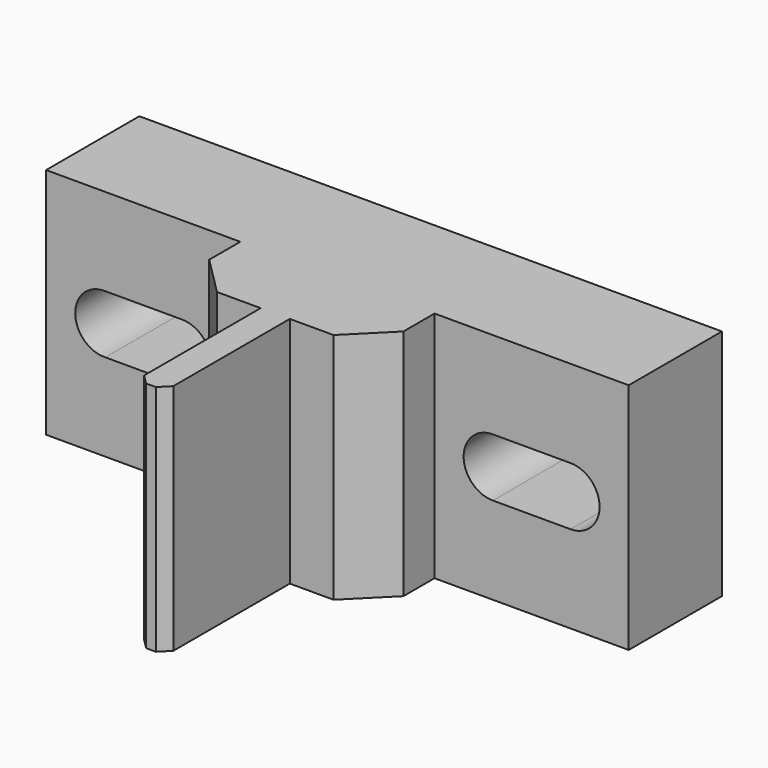
from build123d import *

# Parameters (mm, degrees)
F0_W      = 30
F0_H      = 12
F1_DEPTH  = 6
F2_W      = 10
F2_H      = 12
F3_DEPTH  = 4
F4_W      = 1.5
F4_H      = 12
F5_DEPTH  = 8
F6_SIZE   = 2
F7_SIZE   = 0.5
F10_DEPTH = 6
F12_DEPTH = 6


with BuildPart() as f1:
    # F0 (on Front) → F1 (new body)
    with BuildSketch(Plane.XZ):
        Rectangle(F0_W, F0_H)
    extrude(amount=F1_DEPTH)

    # F2 (on face) → F3 (join)
    with BuildSketch(Plane.XZ.offset(6)):
        Rectangle(F2_W, F2_H)
    extrude(amount=F3_DEPTH)

    # F4 (on face) → F5 (join)
    with BuildSketch(Plane.XZ.offset(10)):
        Rectangle(F4_W, F4_H)
    extrude(amount=F5_DEPTH)

    # F6
    f6_edges = [f1.edges().sort_by_distance(p)[0] for p in [
        (-5, -10, 0),
        (5, -10, 0),
    ]]
    chamfer(f6_edges, length=F6_SIZE)

    # F7
    f7_edges = [f1.edges().sort_by_distance(p)[0] for p in [
        (-0.75, -18, 0),
        (0.75, -18, 0),
    ]]
    chamfer(f7_edges, length=F7_SIZE)

    # F9 (on face) → F10 (cut, through all)
    with BuildSketch(Plane.XZ.offset(6)):
        with BuildLine():
            Line((8.028282, 1.499733), (7.971718, 1.499733))
            ThreePointArc((7.971718, 1.499733), (6.500096, -0.016942), (8.005601, -1.49999))
            ThreePointArc((8.005601, -1.49999), (9.062639, -1.058678), (9.5, 0))
            ThreePointArc((9.5, 0), (9.070613, 1.050614), (8.028282, 1.499733))
        make_face()
        with BuildLine():
            ThreePointArc((8.028282, 1.499733), (8, 1.5), (7.971718, 1.499733))
            Line((7.971718, 1.499733), (8.028282, 1.499733))
        make_face()
        with BuildLine():
            ThreePointArc((9.5, 0), (9.062639, -1.058678), (8.005601, -1.49999))
            Line((8.005601, -1.49999), (11.999996, -1.5))
            ThreePointArc((11.999996, -1.5), (10.500067, -0.014139), (11.971718, 1.499733))
            Line((11.971718, 1.499733), (8.028282, 1.499733))
            ThreePointArc((8.028282, 1.499733), (9.070613, 1.050614), (9.5, 0))
        make_face()
        with BuildLine():
            ThreePointArc((11.971718, 1.499733), (10.500067, -0.014139), (11.999996, -1.5))
            ThreePointArc((11.999996, -1.5), (13.060659, -1.060662), (13.5, 0))
            ThreePointArc((13.5, 0), (13.050614, 1.070613), (11.971718, 1.499733))
        make_face()
    extrude(amount=-F10_DEPTH, mode=Mode.SUBTRACT)

    # F11 (on face) → F12 (cut, through all)
    with BuildSketch(Plane.XZ.offset(6)):
        with BuildLine():
            Line((-11.948695, 1.499122), (-12.051971, 1.499099))
            ThreePointArc((-12.051971, 1.499099), (-13.499095, -0.052084), (-11.947804, -1.499092))
            ThreePointArc((-11.947804, -1.499092), (-10.921043, -1.042043), (-10.5, 0))
            ThreePointArc((-10.5, 0), (-10.921353, 1.042363), (-11.948695, 1.499122))
        make_face()
        with BuildLine():
            ThreePointArc((-11.948695, 1.499122), (-12.000333, 1.5), (-12.051971, 1.499099))
            Line((-12.051971, 1.499099), (-11.948695, 1.499122))
        make_face()
        with BuildLine():
            ThreePointArc((-10.5, 0), (-10.921043, -1.042043), (-11.947804, -1.499092))
            Line((-11.947804, -1.499092), (-8.000345, -1.5))
            ThreePointArc((-8.000345, -1.5), (-9.5, 6e-06), (-8.000333, 1.5))
            Line((-8.000333, 1.5), (-11.948695, 1.499122))
            ThreePointArc((-11.948695, 1.499122), (-10.921353, 1.042363), (-10.5, 0))
        make_face()
        with BuildLine():
            ThreePointArc((-8.000333, 1.5), (-9.5, 6e-06), (-8.000345, -1.5))
            ThreePointArc((-8.000345, -1.5), (-6.939462, -1.060782), (-6.5, 0))
            ThreePointArc((-6.5, 0), (-6.939458, 1.060778), (-8.000333, 1.5))
        make_face()
    extrude(amount=-F12_DEPTH, mode=Mode.SUBTRACT)


solid = f1.part
